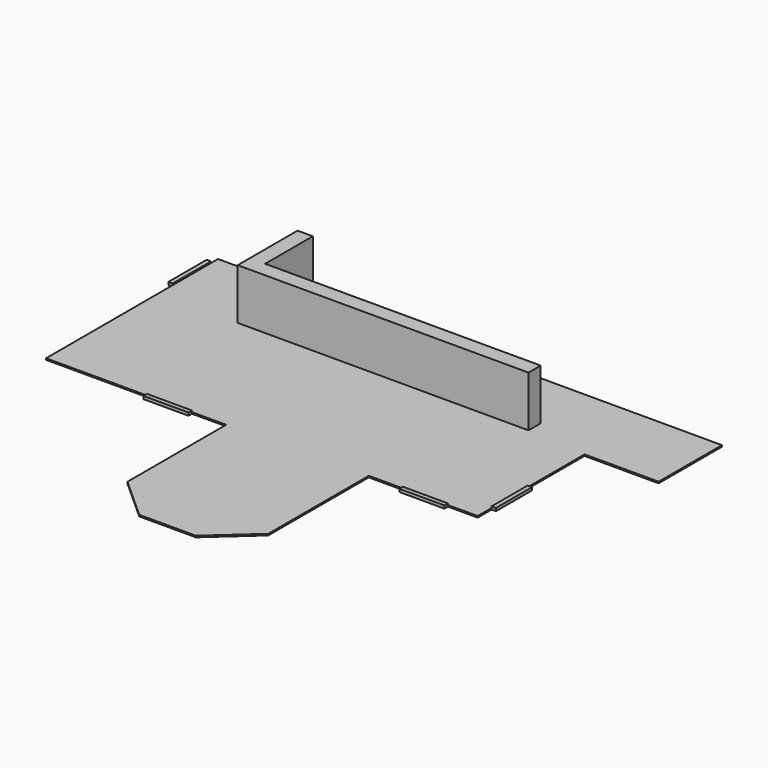
from build123d import *

# Parameters (mm, degrees)
F3_DEPTH = 25.4
F4_DEPTH = 914.4
F2_W     = 76.2
F2_H     = 838.2
F2_W_2   = 787.4
F2_H_2   = 76.2
F2_H_3   = 787.4
F5_DEPTH = 50.8


with BuildPart() as f3:
    # F0 (on Top) → F3 (new body)
    with BuildSketch(Plane.XY):
        Polygon((8813.8, 0), (0, 0), (0, -3759.2), (3149.6, -3759.2), (3149.6, -5918.2), (3886.2, -6580.550964), (4876.8, -6580.550964), (5613.4, -5918.2), (5613.4, -3721.1), (7518.4, -3721.1), (7518.4, -1384.3), (8813.8, -1384.3), align=None)
    extrude(amount=F3_DEPTH)

    # F1 (on Top) → F4 (join)
    with BuildSketch(Plane.XY):
        Polygon((6477, -1308.1), (6477, -1174.75), (6477, -1041.4), (1657.35, -1041.4), (1657.35, 0), (1524, 0), (1390.65, 0), (1390.65, -1308.1), align=None)
    extrude(amount=F4_DEPTH)

    # F2 (on Top) → F5 (join)
    with BuildSketch(Plane.XY):
        with Locations((-38.1, -571.5)):
            Rectangle(F2_W, F2_H)
        with Locations((2159, -3797.3)):
            Rectangle(F2_W_2, F2_H_2)
        with Locations((6604, -3759.2)):
            Rectangle(F2_W_2, F2_H_2)
        with Locations((7556.5, -3022.6)):
            Rectangle(F2_W, F2_H_3)
    extrude(amount=F5_DEPTH)


solid = f3.part
